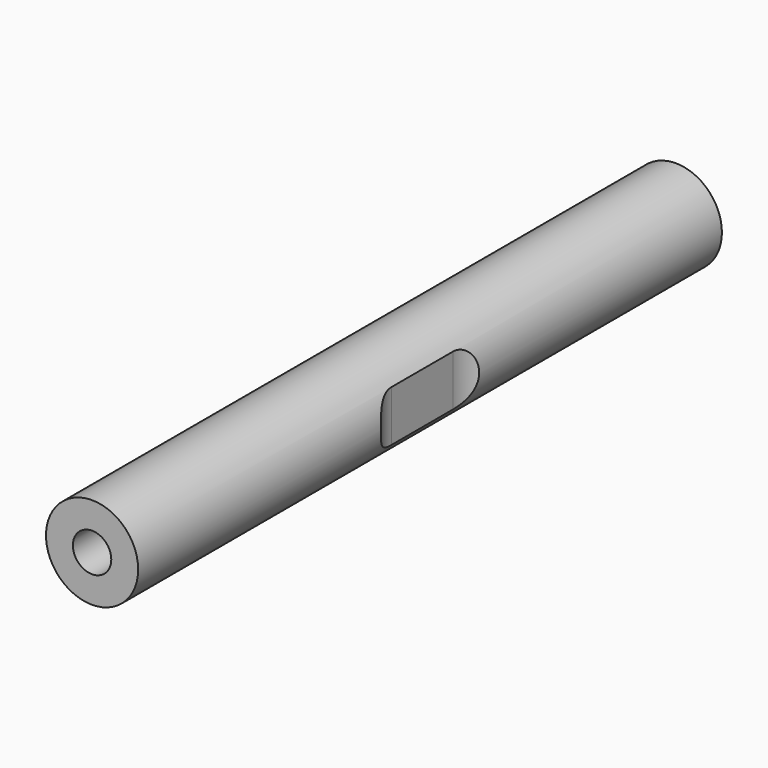
from build123d import *

# Parameters (mm, degrees)
F0_R     = 6
F1_DEPTH = 95
F2_R     = 2.5
F3_DEPTH = 25
F4_R     = 2.5
F5_DEPTH = 25
F7_DEPTH = 12.5


with BuildPart() as f1:
    # F0 (on Front) → F1 (new body)
    with BuildSketch(Plane.XZ):
        Circle(F0_R)
    extrude(amount=F1_DEPTH)

    # F2 (on face) → F3 (cut)
    with BuildSketch(Plane.XZ.offset(95)):
        Circle(F2_R)
    extrude(amount=-F3_DEPTH, mode=Mode.SUBTRACT)

    # F4 (on face) → F5 (cut)
    with BuildSketch(Plane(origin=(0, 0, 0), x_dir=(-1, 0, 0), z_dir=(0, 1, 0))):
        Circle(F4_R)
    extrude(amount=-F5_DEPTH, mode=Mode.SUBTRACT)

    # F6 (on Top) → F7 (cut, symmetric)
    with BuildSketch(Plane.XY):
        with BuildLine():
            Line((11.650951, -37.5), (10, -37.5))
            ThreePointArc((10, -37.5), (6.464466, -38.964466), (5, -42.5))
            Line((5, -42.5), (5, -52.5))
            ThreePointArc((5, -52.5), (6.464466, -56.035534), (10, -57.5))
            Line((10, -57.5), (11.650951, -57.5))
            Line((11.650951, -57.5), (11.650951, -37.5))
        make_face()
        with BuildLine():
            ThreePointArc((-5, -42.5), (-6.464466, -38.964466), (-10, -37.5))
            Line((-10, -37.5), (-11.650951, -37.5))
            Line((-11.650951, -37.5), (-11.650951, -57.5))
            Line((-11.650951, -57.5), (-10, -57.5))
            ThreePointArc((-10, -57.5), (-6.464466, -56.035534), (-5, -52.5))
            Line((-5, -52.5), (-5, -42.5))
        make_face()
    extrude(amount=F7_DEPTH, both=True, mode=Mode.SUBTRACT)


solid = f1.part
